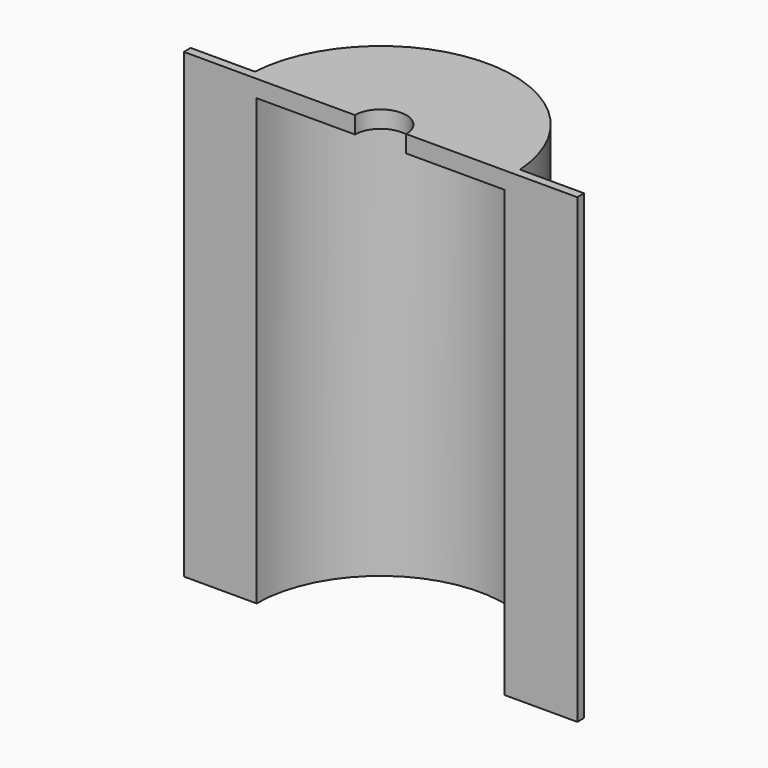
from build123d import *

# Parameters (mm, degrees)
F1_DEPTH = 26
F3_DEPTH = 2


with BuildPart() as f1:
    # F0 (on Top) → F1 (new body, symmetric)
    with BuildSketch(Plane.XY):
        with BuildLine():
            Line((-21.6270365771, 1), (-21.6270365771, 0))
            Line((-21.6270365771, 0), (-13.1270365771, 0))
            ThreePointArc((-13.1270365771, 0), (1.3729634229, 14.5), (15.8729634229, 0))
            Line((15.8729634229, 0), (24.3729634229, 0))
            Line((24.3729634229, 0), (24.3729634229, 1))
            Line((24.3729634229, 1), (16.8729634229, 1))
            ThreePointArc((16.8729634229, 1), (1.3729634229, 15.532224567), (-14.1270365771, 1))
            Line((-14.1270365771, 1), (-21.6270365771, 1))
        make_face()
    extrude(amount=F1_DEPTH, both=True)

    # F2 (on face) → F3 (join)
    with BuildSketch(Plane.XY.offset(26)):
        with BuildLine():
            ThreePointArc((-13.1270365771, 0), (1.3729634229, 14.5), (15.8729634229, 0))
            Line((15.8729634229, 0), (24.3729634229, 0))
            Line((24.3729634229, 0), (24.3729634229, 1))
            Line((24.3729634229, 1), (16.8729634229, 1))
            ThreePointArc((16.8729634229, 1), (1.3729634229, 15.532224567), (-14.1270365771, 1))
            Line((-14.1270365771, 1), (-21.6270365771, 1))
            Line((-21.6270365771, 1), (-21.6270365771, 0))
            Line((-21.6270365771, 0), (-13.1270365771, 0))
        make_face()
        with BuildLine():
            ThreePointArc((-1.6270365771, 0), (1.3729634229, 3), (4.3729634229, 0))
            Line((4.3729634229, 0), (15.8729634229, 0))
            ThreePointArc((15.8729634229, 0), (1.3729634229, 14.5), (-13.1270365771, 0))
            Line((-13.1270365771, 0), (-1.6270365771, 0))
        make_face()
    extrude(amount=F3_DEPTH)


solid = f1.part
